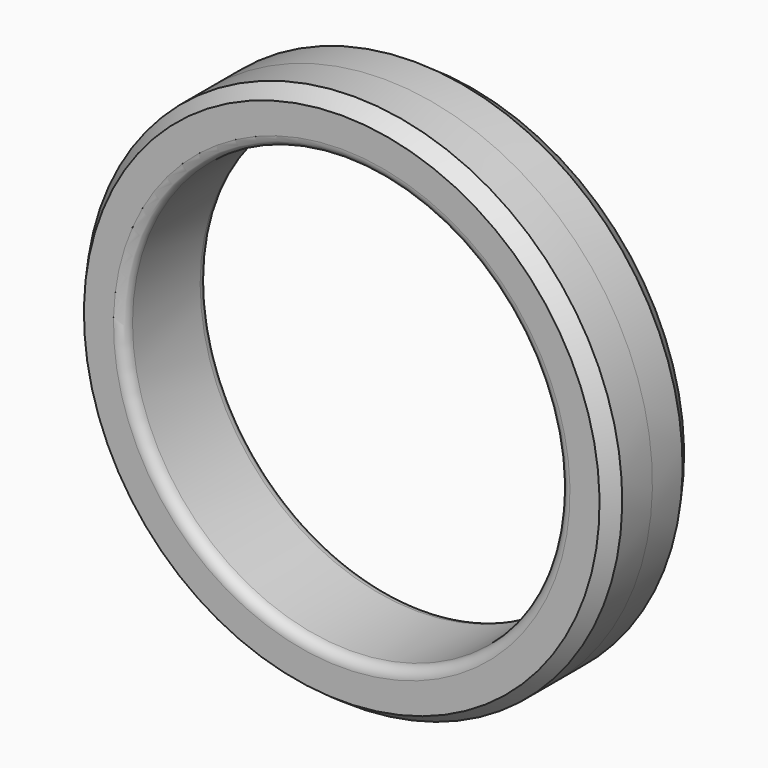
from build123d import *


with BuildPart() as f1:
    # F0 (on Right) → F1 (revolve)
    with BuildSketch(Plane.YZ):
        with BuildLine():
            ThreePointArc((-2.5, 10.8), (-2.353553, 10.446447), (-2, 10.3))
            Line((-2, 10.3), (0, 10.3))
            Line((0, 10.3), (0, 12.7))
            Line((0, 12.7), (-1.785926, 12.7))
            Line((-1.785926, 12.7), (-2.5, 12.2))
            Line((-2.5, 12.2), (-2.5, 10.8))
        make_face()
    revolve(axis=Axis((0, 8.239998, 0), (0, 1, 0)))

    # F2: F1 across plane


with BuildPart() as f1_1:
    add(f1.part)
    add(f1.part.mirror(Plane.XZ))


solid = f1_1.part
